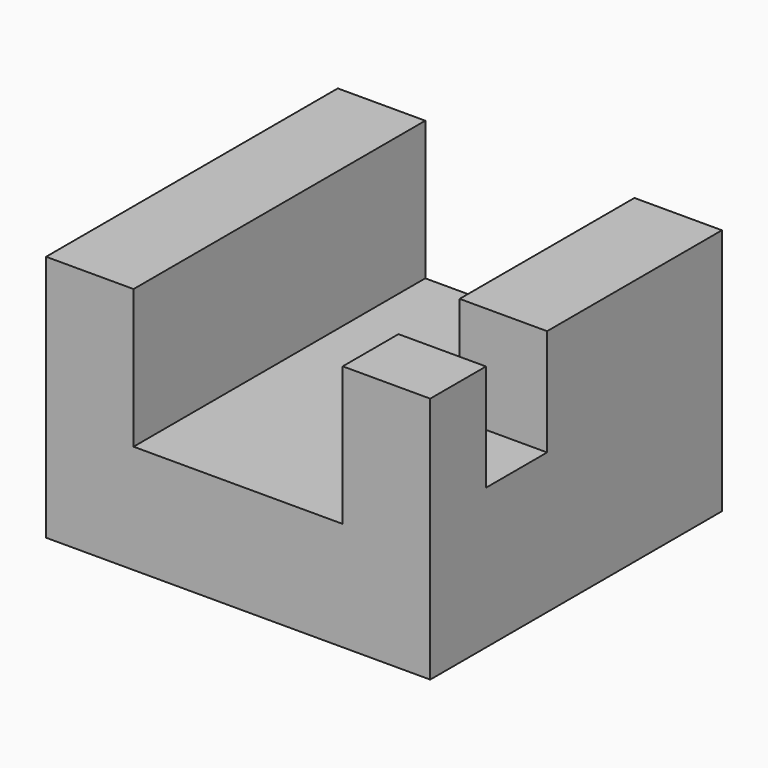
from build123d import *

# Parameters (mm, degrees)
F1_DEPTH = 56.388
F2_W     = 13.5290427133
F2_H     = 11.8184806779
F3_DEPTH = 16.51


with BuildPart() as f1:
    # F0 (on Front) → F1 (new body)
    with BuildSketch(Plane.XZ):
        Polygon((0, 38.2545590401), (0, 0), (59.4034036621, 0), (59.4034036621, 38.2545590401), (45.8743609488, 38.2545590401), (45.8743609488, 16.7946852744), (13.5290427133, 16.7946852744), (13.5290427133, 38.2545590401), align=None)
    extrude(amount=-F1_DEPTH)

    # F2 (on face) → F3 (cut)
    with BuildSketch(Plane.XY.offset(38.2545590401)):
        with Locations((52.6388823055, 16.6865340434)):
            Rectangle(F2_W, F2_H)
    extrude(amount=-F3_DEPTH, mode=Mode.SUBTRACT)


solid = f1.part
